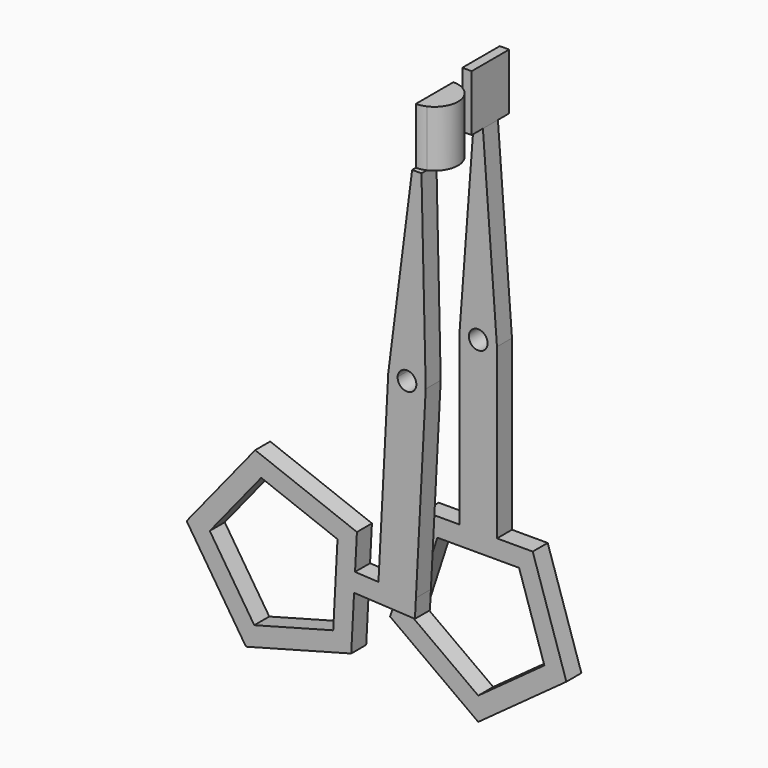
from build123d import *

# Parameters (mm, degrees)
F0_W          = 8
F0_H          = 4
F0_R          = 2
F0_W_2        = 2
F0_H_2        = 12
F1_DEPTH      = 4
F2_W          = 2
F2_H          = 12
F3_DEPTH      = 3
F3_DEPTH_BACK = 7
F6_DEPTH      = 4
F8_DEPTH      = 12


with BuildPart() as f1:
    # F0 (on Front) → F1 (new body)
    with BuildSketch(Plane.XZ):
        with Locations((0, -38)):
            Rectangle(F0_W, F0_H)
        Polygon((4, -36), (4, -40), (8.7185103361, -40), (14.106846055, -56.583592135), (0, -66.83281573), (-14.106846055, -56.583592135), (-8.7185103361, -40), (-4, -40), (-4, -36), (-11.6246804481, -36), (-18.8091280734, -58.11145618), (0, -71.77708764), (18.8091280734, -58.11145618), (11.6246804481, -36), align=None)
        Polygon((-4, -36), (4, -36), (4, 0), (1, 40), (-1, 40), (-4, 0), align=None)
        Circle(F0_R, mode=Mode.SUBTRACT)
        with Locations((0, 46)):
            Rectangle(F0_W_2, F0_H_2)
    extrude(amount=F1_DEPTH)

    # F2 (on face) → F3 (join, two sides)
    with BuildSketch(Plane.XZ.offset(4)) as f3_sk:
        with Locations((0, 46)):
            Rectangle(F2_W, F2_H)
    extrude(amount=F3_DEPTH)
    extrude(f3_sk.sketch, amount=-F3_DEPTH_BACK)


with BuildPart() as f6:
    # F5 (on offset) → F6 (new body)
    with BuildSketch(Plane.XZ.offset(19)):
        with BuildLine():
            Line((1.9972590695, -0.1046719125), (3.994518139, -0.209343825))
            Line((3.994518139, -0.209343825), (3.0920677845, 39.8928454339))
            Line((3.0920677845, 39.8928454339), (1.094808715, 39.9975173464))
            Line((1.094808715, 39.9975173464), (-3.994518139, 0.209343825))
            Line((-3.994518139, 0.209343825), (-1.9972590695, 0.1046719125))
            ThreePointArc((-1.9972590695, 0.1046719125), (0.0523538966, 1.99931465), (2, 0))
            ThreePointArc((2, 0), (1.99931465, -0.0523538966), (1.9972590695, -0.1046719125))
        make_face()
        with BuildLine():
            Line((1.9010798893, -40.1545252152), (3.994518139, -0.209343825))
            Line((3.994518139, -0.209343825), (1.9972590695, -0.1046719125))
            ThreePointArc((1.9972590695, -0.1046719125), (-0.1046719125, -1.9972590695), (-1.9972590695, 0.1046719125))
            Line((-1.9972590695, 0.1046719125), (-3.994518139, 0.209343825))
            Line((-3.994518139, 0.209343825), (-6.0879563887, -39.7358375652))
            Line((-6.0879563887, -39.7358375652), (1.9010798893, -40.1545252152))
        make_face()
        Polygon((1.6917360643, -44.1490433542), (1.9010798893, -40.1545252152), (-6.0879563887, -39.7358375652), (-11.0811040625, -39.474157784), (-11.2904478875, -43.468675923), align=None)
        Polygon((1.094808715, 39.9975173464), (3.0920677845, 39.8928454339), (3.0897122721, 39.9975173464), align=None)
        Polygon((-11.2904478875, -43.468675923), (-11.0811040625, -39.474157784), (-15.0756222015, -39.264813959), (-15.2849660265, -43.259332098), align=None)
        Polygon((-15.0756222015, -39.264813959), (-11.0811040625, -39.474157784), (-10.6820591202, -31.8599266955), (-32.3872073814, -23.5281009029), (-47.0185042723, -41.5962478298), (-34.3559947891, -61.0948025369), (-11.8988366547, -55.0774251506), (-11.2904478875, -43.468675923), (-15.2849660265, -43.259332098), (-15.741257602, -51.9658940187), (-32.5841262027, -56.4789270585), (-42.0810083151, -41.8550110281), (-31.107535647, -28.3039008329), (-14.828674451, -34.5527701774), align=None)
    extrude(amount=F6_DEPTH)

    # F7 (on face) → F8 (join)
    with BuildSketch(Plane.XY.offset(39.9975173464)):
        with BuildLine():
            Line((3.0897122721, -19), (1.094808715, -19))
            Line((1.094808715, -19), (1.094808715, -22))
            ThreePointArc((1.094808715, -22), (2.1136357454, -21.8950987204), (3.0897122721, -21.5847965929))
            Line((3.0897122721, -21.5847965929), (3.0897122721, -19))
        make_face()
        with BuildLine():
            ThreePointArc((3.0897122721, -21.5847965929), (5.9899074353, -15.9811729696), (1.094808715, -12))
            Line((1.094808715, -12), (1.094808715, -19))
            Line((1.094808715, -19), (3.0897122721, -19))
            Line((3.0897122721, -19), (3.0897122721, -21.5847965929))
        make_face()
    extrude(amount=F8_DEPTH)


solid = Compound([f1.part, f6.part])
